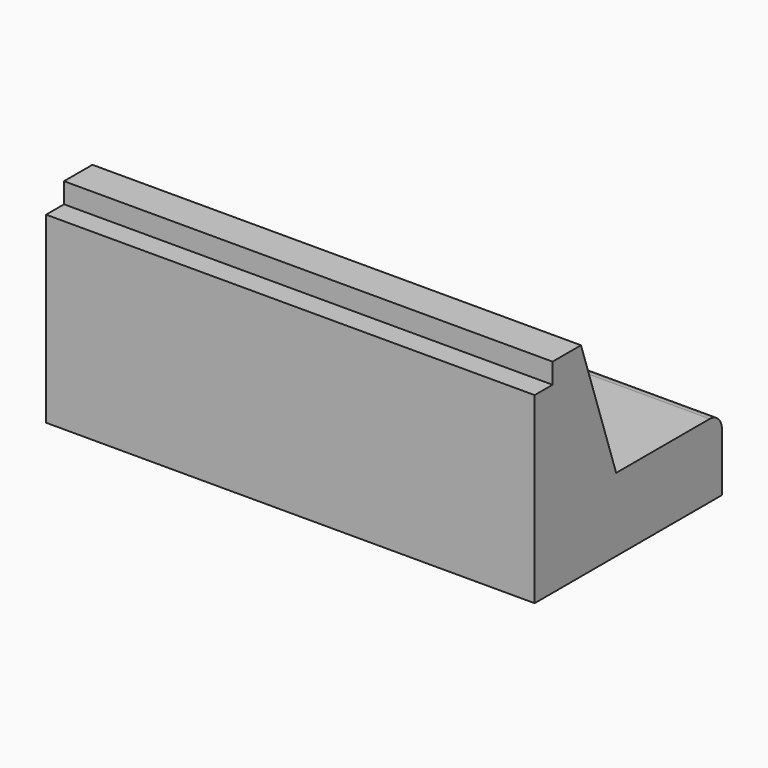
from build123d import *

# Parameters (mm, degrees)
F1_DEPTH = 2438.4


with BuildPart() as f1:
    # F0 (on Right) → F1 (new body)
    with BuildSketch(Plane.YZ):
        with BuildLine():
            Line((111.86897, 914.4), (0, 914.4))
            Line((0, 914.4), (0, 0))
            Line((0, 0), (1168.4, 0))
            Line((1168.4, 0), (1168.4, 289.752079))
            ThreePointArc((1168.4, 289.752079), (1146.081537, 343.633616), (1092.2, 365.952079))
            Line((1092.2, 365.952079), (508.629589, 365.952079))
            Line((508.629589, 365.952079), (289.065507, 1016))
            Line((289.065507, 1016), (111.86897, 1016))
            Line((111.86897, 1016), (111.86897, 914.4))
        make_face()
    extrude(amount=F1_DEPTH)


solid = f1.part
